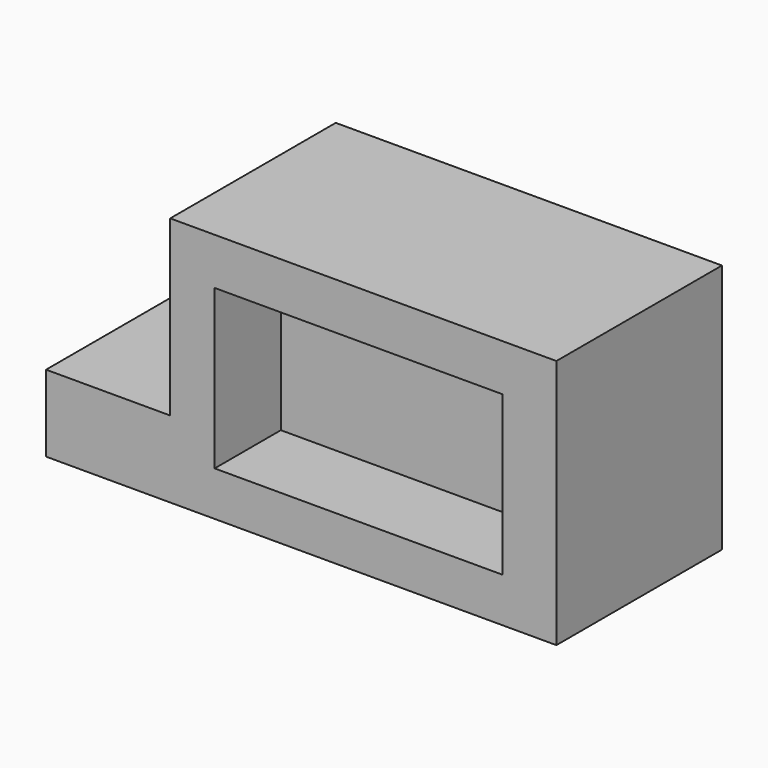
from build123d import *

# Parameters (mm, degrees)
F1_DEPTH  = 12.7
F2_W      = 19.4173352793
F2_H      = 11.3267796114
F3_DEPTH  = 5.08
F4_W      = 12.7
F4_H      = 4.7013934236
F5_DEPTH  = 7.62
F6_DEPTH  = 5.08
F7_W      = 17.6784014329
F7_H      = 9.7536002286
F8_DEPTH  = 5.08
F9_W      = 16.7640009895
F9_H      = 8.8392002508
F10_DEPTH = 5.08


with BuildPart() as f1:
    # F0 (on Front) → F1 (new body)
    with BuildSketch(Plane.XZ):
        Polygon((11.9880298153, 7.1389395744), (-11.7186363786, 7.1389395744), (-11.7186363786, -8.2165151834), (11.9880298153, -8.2165151834), (11.9880298153, -2.5592423044), align=None)
    extrude(amount=F1_DEPTH)

    # F2 (on face) → F3 (cut)
    with BuildSketch(Plane(origin=(0, 0, 0), x_dir=(-1, 0, 0), z_dir=(0, 1, 0))):
        with Locations((-0.2076723613, -0.6256373599)):
            Rectangle(F2_W, F2_H)
    extrude(amount=-F3_DEPTH, mode=Mode.SUBTRACT)

    # F4 (on face) → F5 (join)
    with BuildSketch(Plane(origin=(-11.7186363786, 0, 0), x_dir=(0, -1, 0), z_dir=(-1, 0, 0))):
        with Locations((6.35, -5.8658184716)):
            Rectangle(F4_W, F4_H)
    extrude(amount=F5_DEPTH)

    # F6 (add): a face of the model
    f6_faces = [f1.faces().sort_by_distance(p)[0] for p in [
        (0.2076723613, -5.08, -0.6256373599),
    ]]
    extrude(f6_faces, amount=F6_DEPTH)

    # F7 (on face) → F8 (cut)
    with BuildSketch(Plane.XZ.offset(12.7)):
        with Locations((-0.1524002291, -0.6095997524)):
            Rectangle(F7_W, F7_H)
    extrude(amount=-F8_DEPTH, mode=Mode.SUBTRACT)

    # F9 (on face) → F10 (cut)
    with BuildSketch(Plane(origin=(0, 0, 0), x_dir=(-1, 0, 0), z_dir=(0, 1, 0))):
        with Locations((-4.657e-07, -0.7620002143)):
            Rectangle(F9_W, F9_H)
    extrude(amount=-F10_DEPTH, mode=Mode.SUBTRACT)


solid = f1.part
